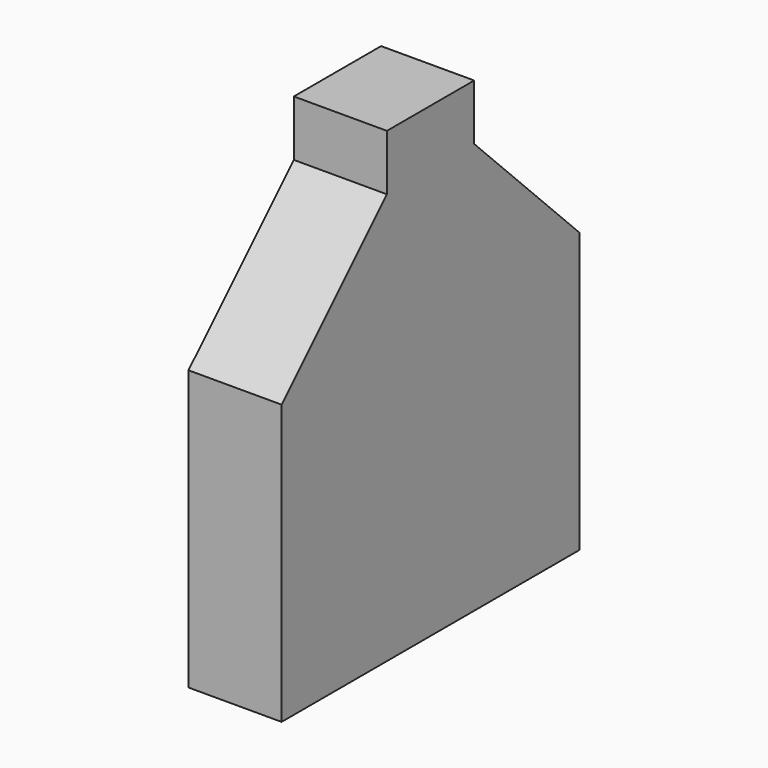
from build123d import *

# Parameters (mm, degrees)
F1_DEPTH = 25.4


with BuildPart() as f1:
    # F0 (on Right) → F1 (new body)
    with BuildSketch(Plane.YZ):
        Polygon((-50.8, 8.269727), (-50.8, -67.930273), (50.8, -67.930273), (50.8, 8.269727), (14.878976, 44.190752), (14.878976, 59.430752), (0, 59.430752), (-14.878976, 59.430752), (-14.878976, 44.190752), align=None)
    extrude(amount=F1_DEPTH)


solid = f1.part
